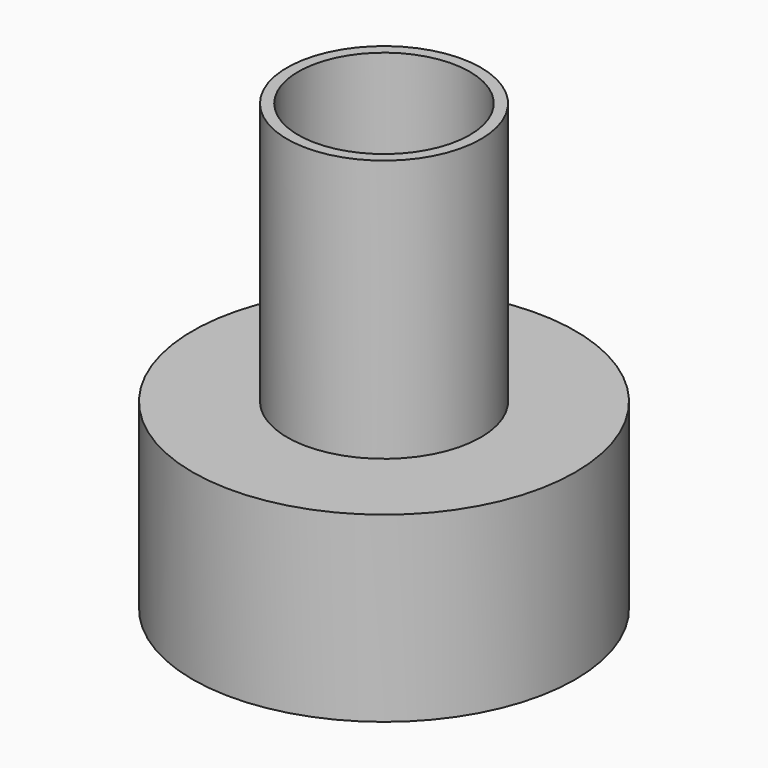
from build123d import *

# Parameters (mm, degrees)
F1_R      = 5.444651
F2_DEPTH  = 25
F0_R      = 10.753152
F3_DEPTH  = 10.25
F4_R      = 9.987973
F5_DEPTH  = 9.25
F6_R      = 10.118676
F7_DEPTH  = 9.25
F8_R      = 10.231206
F9_DEPTH  = 9.25
F10_R     = 4.818697
F11_DEPTH = 25


with BuildPart() as f2:
    # F1 (on face) → F2 (new body)
    with BuildSketch(Plane.XY):
        with Locations((24.854638, -25.491413)):
            Circle(F1_R)
    extrude(amount=F2_DEPTH)

    # F0 (on Top) → F3 (join)
    with BuildSketch(Plane.XY):
        with Locations((24.854667, -25.49172)):
            Circle(F0_R)
    extrude(amount=F3_DEPTH)

    # F4 (on face) → F5 (join)
    with BuildSketch(Plane(origin=(0, 0, 0), x_dir=(1, 0, 0), z_dir=(0, 0, -1))):
        with Locations((24.854667, 25.49172)):
            Circle(F4_R)
    extrude(amount=-F5_DEPTH)

    # F6 (on face) → F7 (join)
    with BuildSketch(Plane(origin=(0, 0, 0), x_dir=(1, 0, 0), z_dir=(0, 0, -1))):
        with Locations((24.854667, 25.49172)):
            Circle(F6_R)
    extrude(amount=-F7_DEPTH)

    # F8 (on face) → F9 (cut)
    with BuildSketch(Plane(origin=(0, 0, 0), x_dir=(1, 0, 0), z_dir=(0, 0, -1))):
        with Locations((24.854667, 25.49172)):
            Circle(F8_R)
    extrude(amount=-F9_DEPTH, mode=Mode.SUBTRACT)

    # F10 (on face) → F11 (cut)
    with BuildSketch(Plane.XY.offset(25)):
        with Locations((24.854638, -25.491413)):
            Circle(F10_R)
    extrude(amount=-F11_DEPTH, mode=Mode.SUBTRACT)


solid = f2.part
